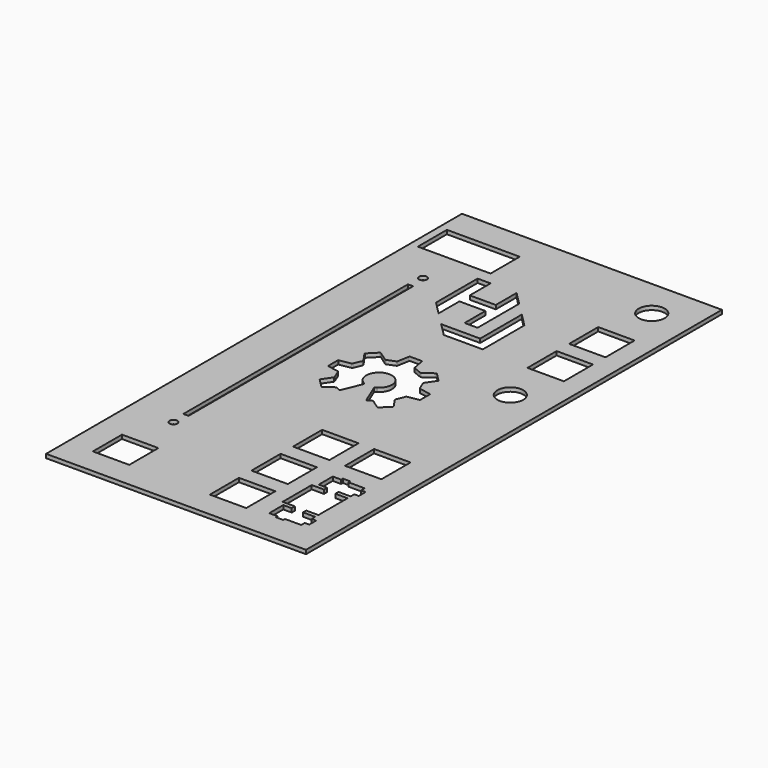
from build123d import *

# Parameters (mm, degrees)
SKETCH_W        = 100
SKETCH_H        = 200
PAD_DEPTH       = 1.5
SKETCH004_W     = 14
SKETCH004_H     = 14
POCKET_DEPTH    = 1.5
SKETCH001_R     = 1.5
SKETCH001_W     = 28
SKETCH001_H     = 14
SKETCH001_W_2   = 2
SKETCH001_H_2   = 108
SKETCH001_W_3   = 14
POCKET001_DEPTH = 1.5
SKETCH005_R     = 5
SKETCH005_W     = 14
SKETCH005_H     = 14
POCKET002_DEPTH = 1.5
POCKET003_DEPTH = 1.5
POCKET004_DEPTH = 1.5


with BuildPart() as part:
    # Sketch → Pad (new body)
    with BuildSketch(Plane.XY):
        Rectangle(SKETCH_W, SKETCH_H)
    extrude(amount=PAD_DEPTH)

    # Sketch004 (on Face6 of Pad) → Pocket (cut)
    with BuildSketch(Plane.XY.offset(1.5)):
        Polygon((25, -80), (25, -66), (29.7, -66), (29.7, -64.475), (26.47, -64.475), (26.47, -57.725), (29.7, -57.725), (29.7, -56.9), (32.485, -56.9), (32.485, -57.725), (38.77, -57.725), (38.77, -59.45), (40.495, -59.45), (40.495, -62.75), (38.77, -62.75), (38.77, -64.475), (34.07, -64.475), (34.07, -66), (38.77, -66), (38.77, -80), (34.07, -80), (34.07, -81.525), (38.77, -81.525), (38.77, -83.25), (40.495, -83.25), (40.495, -86.55), (38.77, -86.55), (38.77, -88.275), (32.485, -88.275), (32.485, -89.1), (29.699991, -89.1), (29.7, -88.275), (26.47, -88.275), (26.47, -81.525), (29.7, -81.525), (29.7, -80), align=None)
        with Locations((12, -83)):
            Rectangle(SKETCH004_W, SKETCH004_H)
        with Locations((12, -63)):
            Rectangle(SKETCH004_W, SKETCH004_H)
        with Locations((12, -43)):
            Rectangle(SKETCH004_W, SKETCH004_H)
        with Locations((32, -43)):
            Rectangle(SKETCH004_W, SKETCH004_H)
    extrude(amount=-POCKET_DEPTH, mode=Mode.SUBTRACT)

    # Sketch001 (on Face6 of Pad) → Pocket001 (cut)
    with BuildSketch(Plane.XY.offset(1.5)):
        with Locations((-33, 60)):
            Circle(SKETCH001_R)
        with Locations((-33, -60)):
            Circle(SKETCH001_R)
        with Locations((-33, 82)):
            Rectangle(SKETCH001_W, SKETCH001_H)
        with Locations((-33, 0)):
            Rectangle(SKETCH001_W_2, SKETCH001_H_2)
        with Locations((-33, -83)):
            Rectangle(SKETCH001_W_3, SKETCH001_H)
    extrude(amount=-POCKET001_DEPTH, mode=Mode.SUBTRACT)

    # Sketch005 (on Face6 of Pad) → Pocket002 (cut)
    with BuildSketch(Plane.XY.offset(1.5)):
        with Locations((35, 85)):
            Circle(SKETCH005_R)
        with Locations((35, 17)):
            Circle(SKETCH005_R)
        with Locations((35, 61)):
            Rectangle(SKETCH005_W, SKETCH005_H)
        with Locations((35, 41)):
            Rectangle(SKETCH005_W, SKETCH005_H)
    extrude(amount=-POCKET002_DEPTH, mode=Mode.SUBTRACT)

    # Sketch006 (on Face5 of Pocket002) → Pocket003 (cut)
    with BuildSketch(Plane.XY.offset(1.5)):
        with BuildLine():
            add(Edge.make_bspline(
                [(15.670221, 2.425281), (11.320735, 3.234112)],
                knots=[0, 0, 16.720824, 16.720824], degree=1))
            add(Edge.make_bspline(
                [(11.320735, 3.234112), (11.214902, 3.253956), (11.099014, 3.353439), (11.063296, 3.455568)],
                knots=[0, 0, 0, 0, 1, 1, 1, 1], degree=3))
            add(Edge.make_bspline(
                [(11.063296, 3.455568), (9.73006, 6.56601)],
                knots=[0, 0, 12.790428, 12.790428], degree=1))
            add(Edge.make_bspline(
                [(9.73006, 6.56601), (9.680319, 6.662054), (9.689844, 6.812866), (9.751227, 6.902295)],
                knots=[0, 0, 0, 0, 1, 1, 1, 1], degree=3))
            add(Edge.make_bspline(
                [(9.751227, 6.902295), (12.285406, 10.595879)],
                knots=[0, 0, 16.929846, 16.929846], degree=1))
            add(Edge.make_bspline(
                [(12.285406, 10.595879), (12.345996, 10.684779), (12.334089, 10.819981), (12.257625, 10.896445)],
                knots=[0, 0, 0, 0, 1, 1, 1, 1], degree=3))
            add(Edge.make_bspline(
                [(12.257625, 10.896445), (9.092414, 14.061656)],
                knots=[0, 0, 16.918237, 16.918237], degree=1))
            add(Edge.make_bspline(
                [(9.092414, 14.061656), (9.01595, 14.13812), (8.881012, 14.150556), (8.792112, 14.089437)],
                knots=[0, 0, 0, 0, 1, 1, 1, 1], degree=3))
            add(Edge.make_bspline(
                [(8.792112, 14.089437), (5.033706, 11.510279)],
                knots=[0, 0, 17.228045, 17.228045], degree=1))
            add(Edge.make_bspline(
                [(5.033706, 11.510279), (4.944806, 11.44916), (4.792406, 11.438312), (4.695833, 11.485937)],
                knots=[0, 0, 0, 0, 1, 1, 1, 1], degree=3))
            add(Edge.make_bspline(
                [(4.695833, 11.485937), (1.680642, 12.720218)],
                knots=[0, 0, 12.313856, 12.313856], degree=1))
            add(Edge.make_bspline(
                [(1.680642, 12.720218), (1.578248, 12.754085), (1.4785, 12.868649), (1.458392, 12.974747)],
                knots=[0, 0, 0, 0, 1, 1, 1, 1], degree=3))
            add(Edge.make_bspline(
                [(1.458392, 12.974747), (0.620985, 17.473458)],
                knots=[0, 0, 17.295064, 17.295064], degree=1))
            add(Edge.make_bspline(
                [(0.620985, 17.473458), (0.601406, 17.579556), (0.496896, 17.666339), (0.388946, 17.666339)],
                knots=[0, 0, 0, 0, 1, 1, 1, 1], degree=3))
            add(Edge.make_bspline(
                [(0.388946, 17.666339), (-4.087804, 17.666339)],
                knots=[0, 0, 16.92, 16.92], degree=1))
            add(Edge.make_bspline(
                [(-4.087804, 17.666339), (-4.19549, 17.666339), (-4.3, 17.579556), (-4.319579, 17.473458)],
                knots=[0, 0, 0, 0, 1, 1, 1, 1], degree=3))
            add(Edge.make_bspline(
                [(-4.319579, 17.473458), (-5.156721, 12.974747)],
                knots=[0, 0, 17.294881, 17.294881], degree=1))
            add(Edge.make_bspline(
                [(-5.156721, 12.974747), (-5.176829, 12.868649), (-5.276313, 12.754085), (-5.378971, 12.720218)],
                knots=[0, 0, 0, 0, 1, 1, 1, 1], degree=3))
            add(Edge.make_bspline(
                [(-5.378971, 12.720218), (-8.394427, 11.485937)],
                knots=[0, 0, 12.314781, 12.314781], degree=1))
            add(Edge.make_bspline(
                [(-8.394427, 11.485937), (-8.491265, 11.438312), (-8.643665, 11.44916), (-8.7323, 11.510279)],
                knots=[0, 0, 0, 0, 1, 1, 1, 1], degree=3))
            add(Edge.make_bspline(
                [(-8.7323, 11.510279), (-12.490442, 14.089437)],
                knots=[0, 0, 17.22722, 17.22722], degree=1))
            add(Edge.make_bspline(
                [(-12.490442, 14.089437), (-12.579606, 14.150556), (-12.714809, 14.13812), (-12.791009, 14.061656)],
                knots=[0, 0, 0, 0, 1, 1, 1, 1], degree=3))
            add(Edge.make_bspline(
                [(-12.791009, 14.061656), (-15.956484, 10.896445)],
                knots=[0, 0, 16.918944, 16.918944], degree=1))
            add(Edge.make_bspline(
                [(-15.956484, 10.896445), (-16.032683, 10.819981), (-16.045383, 10.684779), (-15.984265, 10.595879)],
                knots=[0, 0, 0, 0, 1, 1, 1, 1], degree=3))
            add(Edge.make_bspline(
                [(-15.984265, 10.595879), (-13.449821, 6.902295)],
                knots=[0, 0, 16.930412, 16.930412], degree=1))
            add(Edge.make_bspline(
                [(-13.449821, 6.902295), (-13.388967, 6.812866), (-13.379442, 6.662054), (-13.428919, 6.56601)],
                knots=[0, 0, 0, 0, 1, 1, 1, 1], degree=3))
            add(Edge.make_bspline(
                [(-13.428919, 6.56601), (-14.762419, 3.455568)],
                knots=[0, 0, 12.790822, 12.790822], degree=1))
            add(Edge.make_bspline(
                [(-14.762419, 3.455568), (-14.797873, 3.353439), (-14.913496, 3.253956), (-15.019858, 3.234112)],
                knots=[0, 0, 0, 0, 1, 1, 1, 1], degree=3))
            add(Edge.make_bspline(
                [(-15.019858, 3.234112), (-19.369079, 2.425281)],
                knots=[0, 0, 16.719841, 16.719841], degree=1))
            add(Edge.make_bspline(
                [(-19.369079, 2.425281), (-19.475442, 2.405172), (-19.561961, 2.300926), (-19.561961, 2.192976)],
                knots=[0, 0, 0, 0, 1, 1, 1, 1], degree=3))
            add(Edge.make_bspline(
                [(-19.561961, 2.192976), (-19.561696, -2.283509)],
                knots=[0, 0, 16.919, 16.919], degree=1))
            add(Edge.make_bspline(
                [(-19.561696, -2.283509), (-19.561696, -2.391459), (-19.474913, -2.496499), (-19.368815, -2.515813)],
                knots=[0, 0, 0, 0, 1, 1, 1, 1], degree=3))
            add(Edge.make_bspline(
                [(-19.368815, -2.515813), (-15.126221, -3.30533)],
                knots=[0, 0, 16.310288, 16.310288], degree=1))
            add(Edge.make_bspline(
                [(-15.126221, -3.30533), (-15.020123, -3.324644), (-14.906617, -3.425451), (-14.874338, -3.528374)],
                knots=[0, 0, 0, 0, 1, 1, 1, 1], degree=3))
            add(Edge.make_bspline(
                [(-14.874338, -3.528374), (-13.549833, -6.836988)],
                knots=[0, 0, 13.469783, 13.469783], degree=1))
            add(Edge.make_bspline(
                [(-13.549833, -6.836988), (-13.502473, -6.93409), (-13.513586, -7.085961), (-13.574969, -7.174861)],
                knots=[0, 0, 0, 0, 1, 1, 1, 1], degree=3))
            add(Edge.make_bspline(
                [(-13.574969, -7.174861), (-15.984794, -10.686676)],
                knots=[0, 0, 16.097459, 16.097459], degree=1))
            add(Edge.make_bspline(
                [(-15.984794, -10.686676), (-16.045648, -10.775576), (-16.033213, -10.911042), (-15.957013, -10.987507)],
                knots=[0, 0, 0, 0, 1, 1, 1, 1], degree=3))
            add(Edge.make_bspline(
                [(-15.957013, -10.987507), (-12.791273, -14.152717)],
                knots=[0, 0, 16.919651, 16.919651], degree=1))
            add(Edge.make_bspline(
                [(-12.791273, -14.152717), (-12.715073, -14.228653), (-12.579871, -14.241088), (-12.490706, -14.180499)],
                knots=[0, 0, 0, 0, 1, 1, 1, 1], degree=3))
            add(Edge.make_bspline(
                [(-12.490706, -14.180499), (-9.041069, -11.812742)],
                knots=[0, 0, 15.81373, 15.81373], degree=1))
            add(Edge.make_bspline(
                [(-9.041069, -11.812742), (-8.952169, -11.751888), (-8.803208, -11.747126), (-8.71034, -11.801365)],
                knots=[0, 0, 0, 0, 1, 1, 1, 1], degree=3))
            add(Edge.make_bspline(
                [(-8.71034, -11.801365), (-7.188986, -12.613636)],
                knots=[0, 0, 6.518236, 6.518236], degree=1))
            add(Edge.make_bspline(
                [(-7.188986, -12.613636), (-7.092677, -12.662849), (-6.980229, -12.621309), (-6.938954, -12.521561)],
                knots=[0, 0, 0, 0, 1, 1, 1, 1], degree=3))
            add(Edge.make_bspline(
                [(-6.938954, -12.521561), (-3.802054, -4.942042)],
                knots=[0, 0, 31.003473, 31.003473], degree=1))
            add(Edge.make_bspline(
                [(-3.802054, -4.942042), (-3.760515, -4.842294), (-3.802054, -4.71503), (-3.894129, -4.658674)],
                knots=[0, 0, 0, 0, 1, 1, 1, 1], degree=3))
            add(Edge.make_bspline(
                [(-3.894129, -4.658674), (-4.274865, -4.425576)],
                knots=[0, 0, 1.687271, 1.687271], degree=1))
            add(Edge.make_bspline(
                [(-4.274865, -4.425576), (-4.345244, -4.382713), (-4.440758, -4.308894), (-4.515636, -4.241161)],
                knots=[0, 0, 0, 0, 1, 1, 1, 1], degree=3))
            add(Edge.make_bspline(
                [(-4.515636, -4.241161), (-5.889088, -3.361686), (-6.800313, -1.823134), (-6.800313, -0.071063)],
                knots=[0, 0, 0, 0, 1, 1, 1, 1], degree=3))
            add(Edge.make_bspline(
                [(-6.800313, -0.071063), (-6.800313, 2.663141), (-4.583633, 4.879556), (-1.849694, 4.879556)],
                knots=[0, 0, 0, 0, 1, 1, 1, 1], degree=3))
            add(Edge.make_bspline(
                [(-1.849694, 4.879556), (0.884246, 4.879556), (3.10066, 2.663141), (3.10066, -0.071063)],
                knots=[0, 0, 0, 0, 1, 1, 1, 1], degree=3))
            add(Edge.make_bspline(
                [(3.10066, -0.071063), (3.10066, -1.823134), (2.1897, -3.361686), (0.815983, -4.241161)],
                knots=[0, 0, 0, 0, 1, 1, 1, 1], degree=3))
            add(Edge.make_bspline(
                [(0.815983, -4.241161), (0.741635, -4.308894), (0.645856, -4.382713), (0.575742, -4.425576)],
                knots=[0, 0, 0, 0, 1, 1, 1, 1], degree=3))
            add(Edge.make_bspline(
                [(0.575742, -4.425576), (0.195006, -4.658674)],
                knots=[0, 0, 1.687271, 1.687271], degree=1))
            add(Edge.make_bspline(
                [(0.195006, -4.658674), (0.10346, -4.71503), (0.061656, -4.842294), (0.102931, -4.942042)],
                knots=[0, 0, 0, 0, 1, 1, 1, 1], degree=3))
            add(Edge.make_bspline(
                [(0.102931, -4.942042), (3.239567, -12.521826)],
                knots=[0, 0, 31.004015, 31.004015], degree=1))
            add(Edge.make_bspline(
                [(3.239567, -12.521826), (3.280842, -12.621573), (3.393025, -12.662849), (3.489598, -12.613901)],
                knots=[0, 0, 0, 0, 1, 1, 1, 1], degree=3))
            add(Edge.make_bspline(
                [(3.489598, -12.613901), (5.010952, -11.80163)],
                knots=[0, 0, 6.518236, 6.518236], degree=1))
            add(Edge.make_bspline(
                [(5.010952, -11.80163), (5.104085, -11.74739), (5.252781, -11.751888), (5.341681, -11.813007)],
                knots=[0, 0, 0, 0, 1, 1, 1, 1], degree=3))
            add(Edge.make_bspline(
                [(5.341681, -11.813007), (8.791583, -14.180763)],
                knots=[0, 0, 15.814554, 15.814554], degree=1))
            add(Edge.make_bspline(
                [(8.791583, -14.180763), (8.880483, -14.241353), (9.01595, -14.228917), (9.091885, -14.152982)],
                knots=[0, 0, 0, 0, 1, 1, 1, 1], degree=3))
            add(Edge.make_bspline(
                [(9.091885, -14.152982), (12.257625, -10.987771)],
                knots=[0, 0, 16.919651, 16.919651], degree=1))
            add(Edge.make_bspline(
                [(12.257625, -10.987771), (12.334089, -10.911307), (12.346525, -10.77584), (12.285406, -10.68694)],
                knots=[0, 0, 0, 0, 1, 1, 1, 1], degree=3))
            add(Edge.make_bspline(
                [(12.285406, -10.68694), (9.875317, -7.175126)],
                knots=[0, 0, 16.098025, 16.098025], degree=1))
            add(Edge.make_bspline(
                [(9.875317, -7.175126), (9.814462, -7.086226), (9.803085, -6.934355), (9.850446, -6.837253)],
                knots=[0, 0, 0, 0, 1, 1, 1, 1], degree=3))
            add(Edge.make_bspline(
                [(9.850446, -6.837253), (11.17495, -3.528638)],
                knots=[0, 0, 13.469783, 13.469783], degree=1))
            add(Edge.make_bspline(
                [(11.17495, -3.528638), (11.207494, -3.425715), (11.320206, -3.324909), (11.426569, -3.305594)],
                knots=[0, 0, 0, 0, 1, 1, 1, 1], degree=3))
            add(Edge.make_bspline(
                [(11.426569, -3.305594), (15.669162, -2.516078)],
                knots=[0, 0, 16.310288, 16.310288], degree=1))
            add(Edge.make_bspline(
                [(15.669162, -2.516078), (15.774996, -2.496763), (15.862044, -2.391724), (15.862044, -2.283774)],
                knots=[0, 0, 0, 0, 1, 1, 1, 1], degree=3))
            add(Edge.make_bspline(
                [(15.862044, -2.283774), (15.862573, 2.192712)],
                knots=[0, 0, 16.919, 16.919], degree=1))
            add(Edge.make_bspline(
                [(15.862573, 2.192712), (15.862837, 2.300926), (15.776054, 2.405172), (15.670221, 2.425281)],
                knots=[0, 0, 0, 0, 1, 1, 1, 1], degree=3))
        make_face()
    extrude(amount=-POCKET003_DEPTH, mode=Mode.SUBTRACT)

    # Sketch007 (on Face5 of Pocket003) → Pocket004 (cut)
    with BuildSketch(Plane.XY.offset(1.5)):
        Polygon((-20, 70), (-15, 70), (-15, 60), (-5, 60), (-5, 70), (0, 65), (0, 45), (-5, 45), (-5, 55), (-15, 55), (-15, 45), (-20, 50), align=None)
        Polygon((-10, 40), (-5, 35), (10, 35), (10, 55), (5, 60), (5, 40), align=None)
    extrude(amount=-POCKET004_DEPTH, mode=Mode.SUBTRACT)


solid = part.part
